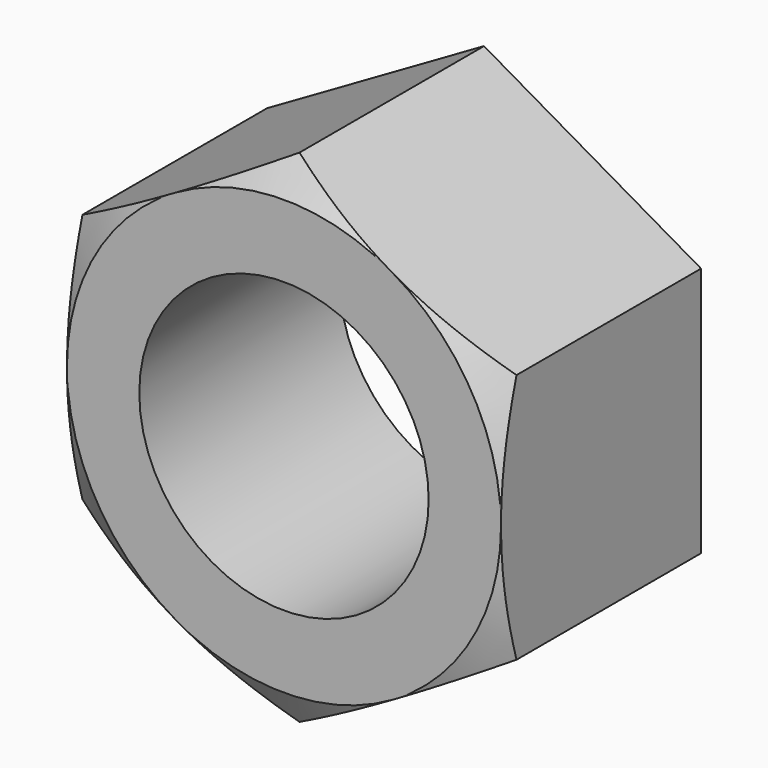
from build123d import *

# Parameters (mm, degrees)
F1_DEPTH = 10.37
F5_D     = 12


with BuildPart() as f1:
    # F0 (on Front) → F1 (new body)
    with BuildSketch(Plane.XZ):
        Polygon((9, -5.196152), (9, 5.196152), (0, 10.392305), (-9, 5.196152), (-9, -5.196152), (0, -10.392305), align=None)
    extrude(amount=-F1_DEPTH)

    # F2 (on Right) → F3 (revolve, cut)
    with BuildSketch(Plane.YZ):
        Polygon((0, 14.392305), (0, 9), (3.113249, 14.392305), align=None)
    revolve(axis=Axis((0, 2.79976, 0), (0, 1, 0)), mode=Mode.SUBTRACT)

    # F5 (through all)
    with Locations(Plane.XZ):
        with Locations((0, 0)):
            Hole(F5_D / 2)


solid = f1.part
